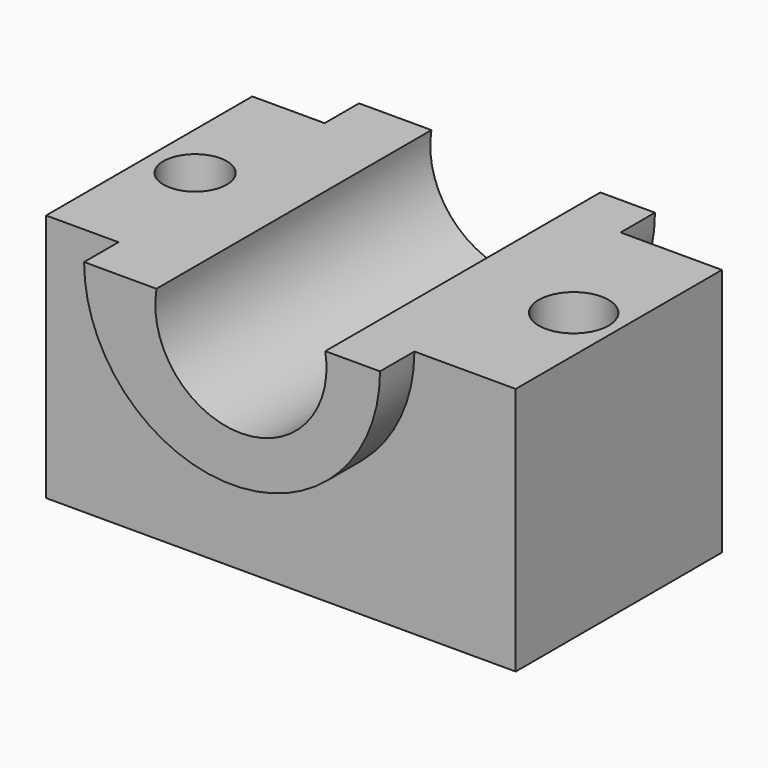
from build123d import *

# Parameters (mm, degrees)
F1_DEPTH      = 38.1
F1_DEPTH_BACK = 38.1
F3_DEPTH      = 50.8
F3_DEPTH_BACK = 50.8
F4_R          = 10.332617
F4_R_2        = 9.383371
F5_DEPTH      = 73.557125


with BuildPart() as f1:
    # F0 (on Front) → F1 (new body, two sides)
    with BuildSketch(Plane.XZ) as f1_sk:
        with BuildLine():
            Line((-34.708198, 11.385217), (-77.499136, 11.385217))
            Line((-77.499136, 11.385217), (-77.499136, -62.170908))
            Line((-77.499136, -62.170908), (61.333679, -62.170908))
            Line((61.333679, -62.170908), (61.333679, 11.385217))
            Line((61.333679, 11.385217), (15.214554, 11.385217))
            ThreePointArc((15.214554, 11.385217), (-9.746822, -18.097968), (-34.708198, 11.385217))
        make_face()
    extrude(amount=F1_DEPTH)
    extrude(f1_sk.sketch, amount=-F1_DEPTH_BACK)

    # F2 (on Front) → F3 (join, two sides)
    with BuildSketch(Plane.XZ) as f3_sk:
        with BuildLine():
            ThreePointArc((15.214554, 11.385217), (-9.746822, -18.097968), (-34.708198, 11.385217))
            Line((-34.708198, 11.385217), (-56.103667, 11.385217))
            ThreePointArc((-56.103667, 11.385217), (-12.361825, -32.356624), (31.380016, 11.385217))
            Line((31.380016, 11.385217), (15.214554, 11.385217))
        make_face()
    extrude(amount=F3_DEPTH)
    extrude(f3_sk.sketch, amount=-F3_DEPTH_BACK)

    # F4 (on face) → F5 (cut, through all)
    with BuildSketch(Plane.XY.offset(11.385217)):
        with Locations((47.989529, 0)):
            Circle(F4_R)
        with Locations((-63.91912, 0)):
            Circle(F4_R_2)
    extrude(amount=-F5_DEPTH, mode=Mode.SUBTRACT)


solid = f1.part
